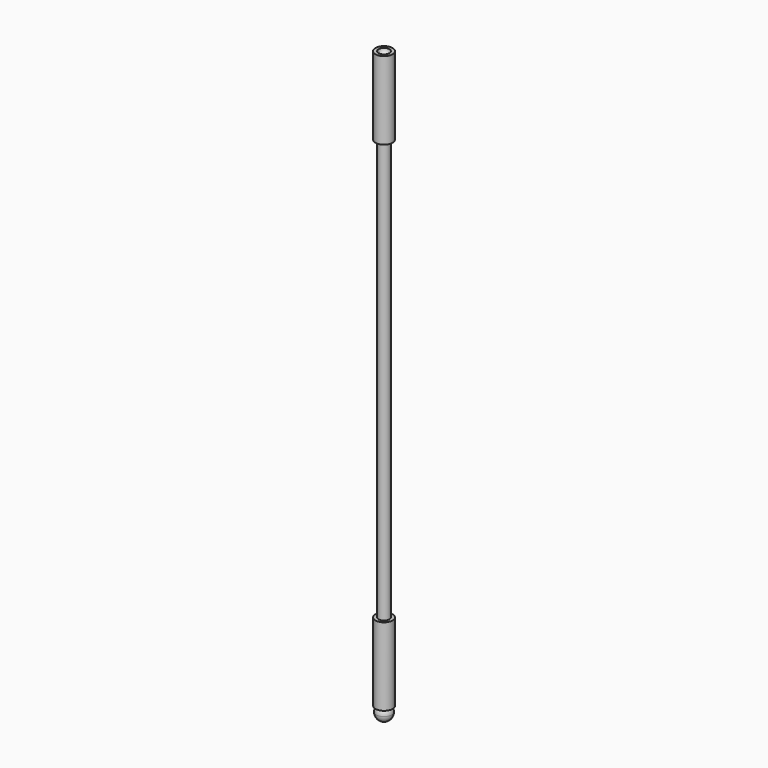
from build123d import *

# Parameters (mm, degrees)
F0_R          = 3.5
F0_R_2        = 2.5
F1_DEPTH      = 300
F2_R          = 5.5
F3_DEPTH      = 25
F3_DEPTH_BACK = 25


with BuildPart() as f1:
    # F0 (on Top) → F1 (new body)
    with BuildSketch(Plane.XY):
        Circle(F0_R)
        Circle(F0_R_2, mode=Mode.SUBTRACT)
    extrude(amount=F1_DEPTH)

    # F2 (on face) → F3 (join, two sides)
    with BuildSketch(Plane(origin=(0, 0, 0), x_dir=(1, 0, 0), z_dir=(0, 0, -1))) as f3_sk:
        Circle(F2_R)
    extrude(amount=F3_DEPTH)
    extrude(f3_sk.sketch, amount=-F3_DEPTH_BACK)

    # F4 (on face) → F5 (revolve, cut)
    with BuildSketch(Plane(origin=(0, 0, -25), x_dir=(1, 0, 0), z_dir=(0, 0, -1))):
        with BuildLine():
            Line((0, 3.5), (0, -3.5))
            ThreePointArc((0, -3.5), (2.4748737342, -2.4748737342), (3.5, 0))
            ThreePointArc((3.5, 0), (2.4748737342, 2.4748737342), (0, 3.5))
        make_face()
    revolve(axis=Axis((0, 0, -25), (0, -1, 0)), mode=Mode.SUBTRACT)

    # F9: F1 across plane


with BuildPart() as f7:
    # F6 (on Right) → F7 (revolve)
    with BuildSketch(Plane.YZ):
        with BuildLine():
            ThreePointArc((0, -33.5), (3.5355339059, -32.0355339059), (5, -28.5))
            ThreePointArc((5, -28.5), (3.5355339059, -24.9644660941), (0, -23.5))
            Line((0, -23.5), (0, -33.5))
        make_face()
    revolve(axis=Axis((0, 0, -28.5), (0, 0, -1)))


with BuildPart() as f1_1:
    add(f1.part)
    add(f1.part.mirror(Plane.XY.offset(160)))


solid = Compound([f7.part, f1_1.part])
